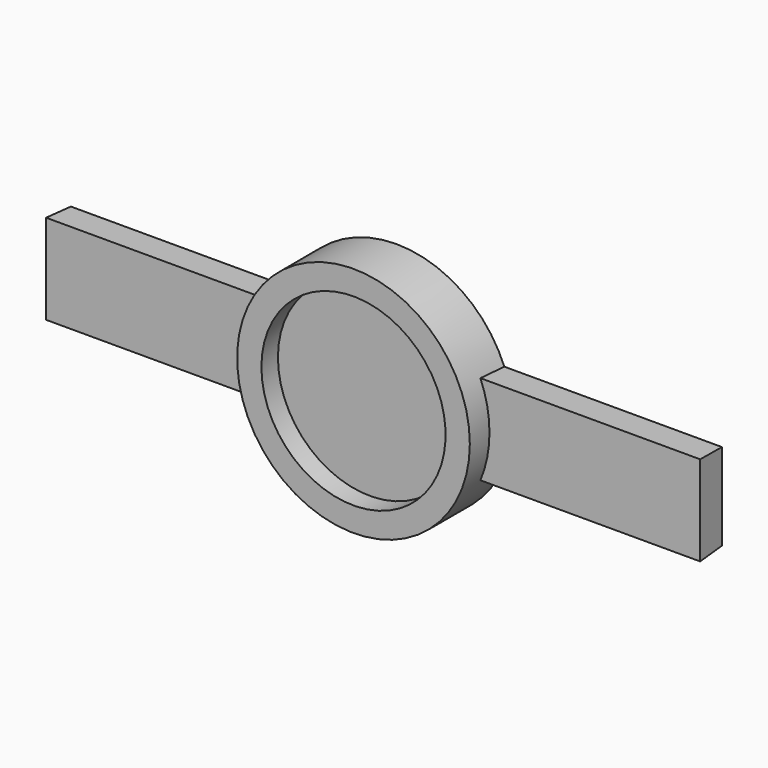
from build123d import *

# Parameters (mm, degrees)
F0_R     = 32.6923124251
F1_DEPTH = 14.6508645266
F2_W     = 224.4729697704
F2_H     = 29.9537181854
F3_DEPTH = 10.0321955979
F3_TAPER = -3
F4_R     = 40.1130157543
F5_DEPTH = 18.4948313981
F7_D     = 63.5
F7_DEPTH = 50.8
F7_TIP   = 19.0773246541
F8_DEPTH = 11.372352019


with BuildPart() as f1:
    # F0 (on Front) → F1 (new body)
    with BuildSketch(Plane.XZ):
        Circle(F0_R)
    extrude(amount=F1_DEPTH)

    # F2 (on Front) → F3 (join)
    with BuildSketch(Plane.XZ):
        Rectangle(F2_W, F2_H)
    extrude(amount=F3_DEPTH, taper=F3_TAPER)

    # F4 (on Front) → F5 (join)
    with BuildSketch(Plane.XZ):
        Circle(F4_R)
    extrude(amount=F5_DEPTH)

    # F7
    with Locations(Plane(origin=(0, 0, 0), x_dir=(1, 0, 0), z_dir=(0, 1, 0))):
        with Locations((0, 0)):
            Hole(F7_D / 2, depth=F7_DEPTH)
            with Locations((0, 0, -(F7_DEPTH + F7_TIP / 2))):  # 118° drill point
                Cone(0, F7_D / 2, F7_TIP, mode=Mode.SUBTRACT)

    # F0 (on Front) → F8 (join)
    with BuildSketch(Plane.XZ):
        Circle(F0_R)
    extrude(amount=F8_DEPTH)


solid = f1.part
